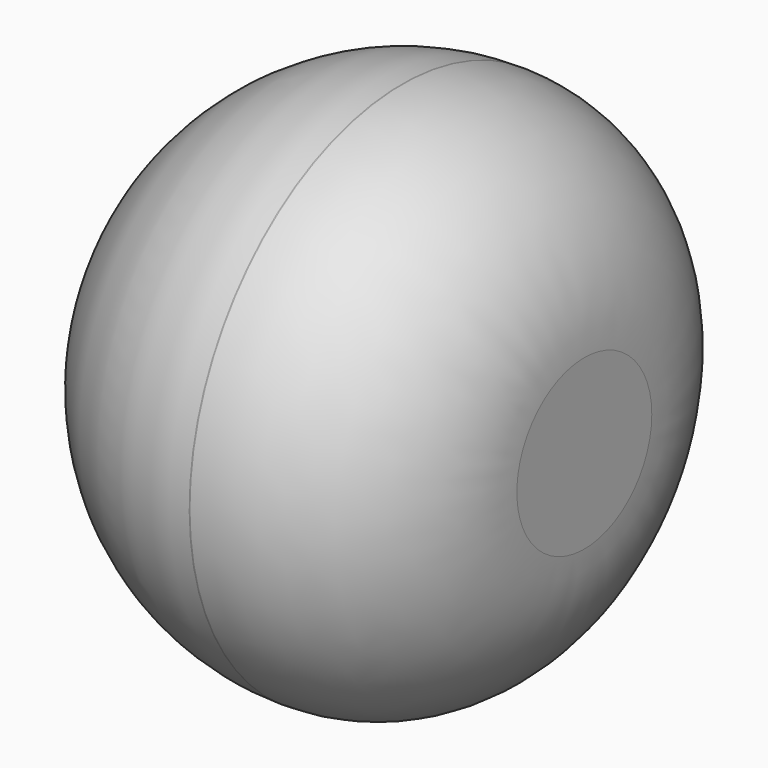
from build123d import *

# Parameters (mm, degrees)
F0_R          = 49.4950717009
F1_DEPTH      = 41
F1_DEPTH_BACK = 41
F2_R          = 48.0428498912
F3_R          = 33.7989898732


with BuildPart() as f1:
    # F0 (on Right) → F1 (new body, two sides)
    with BuildSketch(Plane.YZ) as f1_sk:
        Circle(F0_R)
    extrude(amount=-F1_DEPTH)
    extrude(f1_sk.sketch, amount=F1_DEPTH_BACK)

    # F2
    f2_edges = [f1.edges().sort_by_distance(p)[0] for p in [
        (-41, -49.495072, 0),
    ]]
    fillet(f2_edges, radius=F2_R)

    # F3
    f3_edges = [f1.edges().sort_by_distance(p)[0] for p in [
        (41, -49.495072, 0),
    ]]
    fillet(f3_edges, radius=F3_R)


solid = f1.part
